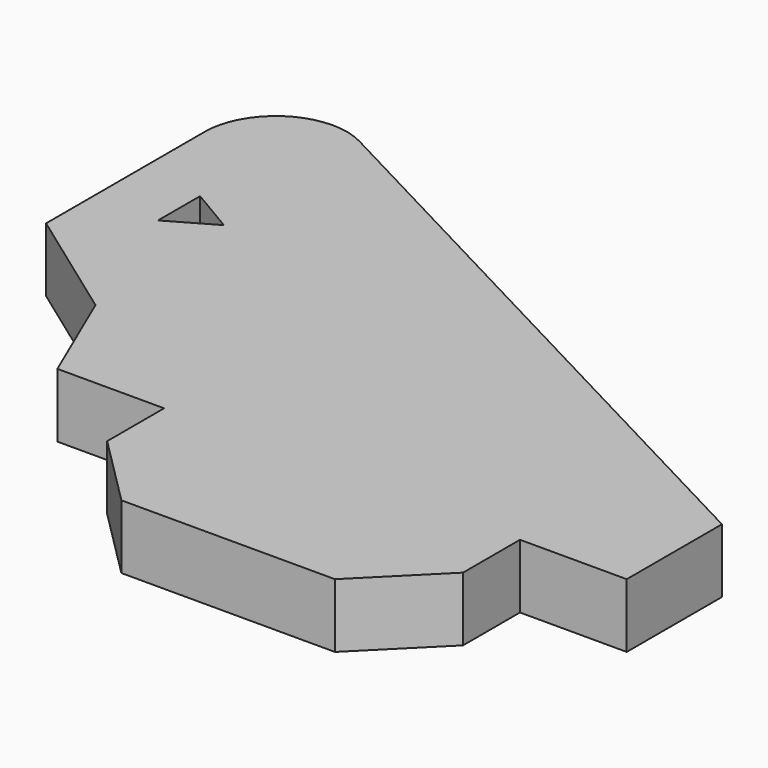
from build123d import *

# Parameters (mm, degrees)
F1_DEPTH = 1.8


with BuildPart() as f1:
    # F0 (on Top) → F1 (new body)
    with BuildSketch(Plane.XY):
        with BuildLine():
            Line((-15.444888, 11.619379), (-14.206161, 8.730631))
            Line((-14.206161, 8.730631), (-11.206161, 8.730631))
            Line((-11.206161, 8.730631), (-11.206161, 6.730631))
            Line((-11.206161, 6.730631), (-9.206161, 4.730631))
            Line((-9.206161, 4.730631), (-3.206161, 4.730631))
            Line((-3.206161, 4.730631), (-1.206161, 6.730631))
            Line((-1.206161, 6.730631), (-1.206161, 8.730631))
            Line((-1.206161, 8.730631), (1.793839, 8.730631))
            Line((1.793839, 8.730631), (1.793839, 12.073743))
            Line((1.793839, 12.073743), (-15.788014, 21.316626))
            ThreePointArc((-15.788014, 21.316626), (-17.752756, 21.258258), (-18.718661, 19.546345))
            Line((-18.718661, 19.546345), (-18.718661, 13.975812))
            Line((-18.718661, 13.975812), (-15.444888, 11.619379))
        make_face()
        Polygon((-16.887772, 15.617794), (-16.887772, 17.096775), (-15.618745, 16.345354), align=None, mode=Mode.SUBTRACT)
    extrude(amount=F1_DEPTH)


solid = f1.part
